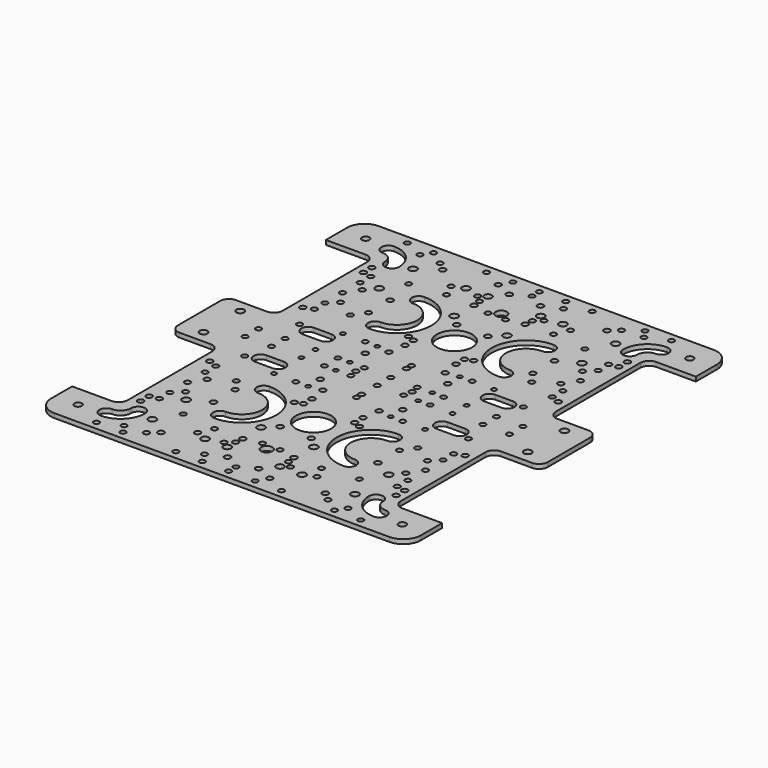
from build123d import *

# Parameters (mm, degrees)
SKETCH_W        = 210
SKETCH_H        = 115
PAD_DEPTH       = 2.5
FILLET_R        = 10
SKETCH001_R     = 2.1
SKETCH001_R_2   = 2.2
POCKET_DEPTH    = 2.501
SKETCH002_W     = 27.5
SKETCH002_H     = 70
POCKET001_DEPTH = 2.501
FILLET001_R     = 5
SKETCH003_R     = 1.6
POCKET002_DEPTH = 2.501
SKETCH004_R     = 1.65
POCKET003_DEPTH = 2.501
SKETCH005_R     = 1.75
POCKET004_DEPTH = 2.501
SKETCH006_R     = 1.6
POCKET005_DEPTH = 2.501
SKETCH007_R     = 2.2
POCKET006_DEPTH = 2.501
SKETCH008_R     = 3.175
POCKET007_DEPTH = 2.501
SKETCH009_R     = 1.7
POCKET008_DEPTH = 2.501
SKETCH010_R     = 1.7
POCKET009_DEPTH = 2.501
SKETCH011_R     = 1.35
POCKET010_DEPTH = 2.501
SKETCH012_R     = 1.6
POCKET011_DEPTH = 2.501
SKETCH013_R     = 1.6
POCKET012_DEPTH = 2.501
SKETCH015_R     = 1.65
POCKET013_DEPTH = 2.501
SKETCH016_R     = 1.6
POCKET014_DEPTH = 481.379899
SKETCH017_R     = 10
POCKET015_DEPTH = 2.5
SKETCH018_R     = 1.65
POCKET016_DEPTH = 2.501
SKETCH020_R     = 1.65
POCKET017_DEPTH = 2.501
SKETCH021_R     = 1.65
POCKET018_DEPTH = 2.501
SKETCH022_R     = 2.2
POCKET019_DEPTH = 2.501
POCKET020_DEPTH = 5


with BuildPart() as part:
    # Sketch → Pad (new body)
    with BuildSketch(Plane.XY):
        Rectangle(SKETCH_W, SKETCH_H)
    extrude(amount=PAD_DEPTH)

    # Fillet
    fillet_edges = [part.edges().sort_by_distance(p)[0] for p in [
        (-105, -57.5, 1.25),
        (105, -57.5, 1.25),
    ]]
    fillet(fillet_edges, radius=FILLET_R)

    # Sketch001 (on Face5 of Fillet) → Pocket (cut, through all)
    with BuildSketch(Plane.XY.offset(2.5)):
        with Locations((92, -44.5)):
            Circle(SKETCH001_R)
        with Locations((-92, -44.5)):
            Circle(SKETCH001_R)
        with Locations((92, 44.5)):
            Circle(SKETCH001_R_2)
        with Locations((-92, 44.5)):
            Circle(SKETCH001_R_2)
    extrude(amount=-POCKET_DEPTH, mode=Mode.SUBTRACT)

    # Sketch002 (on Face5 of Pocket) → Pocket001 (cut, through all)
    with BuildSketch(Plane.XY.offset(2.5)):
        with Locations((91.25, 2.5)):
            Rectangle(SKETCH002_W, SKETCH002_H)
        with Locations((-91.25, 2.5)):
            Rectangle(SKETCH002_W, SKETCH002_H)
    extrude(amount=-POCKET001_DEPTH, mode=Mode.SUBTRACT)

    # Fillet001
    fillet001_edges = [part.edges().sort_by_distance(p)[0] for p in [
        (77.5, -32.5, 1.25),
        (77.5, 37.5, 1.25),
        (-77.5, 37.5, 1.25),
        (-77.5, -32.5, 1.25),
        (105, 37.5, 1.25),
        (-105, 37.5, 1.25),
    ]]
    fillet(fillet001_edges, radius=FILLET001_R)

    # Sketch003 (on Face5 of Fillet001) → Pocket002 (cut, through all)
    with BuildSketch(Plane.XY.offset(2.5)):
        with Locations((0, 38)):
            Circle(SKETCH003_R)
        with Locations((63.5, 38)):
            Circle(SKETCH003_R)
        with Locations((63.5, -47.5)):
            Circle(SKETCH003_R)
        with Locations((0, -47.5)):
            Circle(SKETCH003_R)
        with Locations((-63.5, 38)):
            Circle(SKETCH003_R)
        with Locations((-63.5, -47.5)):
            Circle(SKETCH003_R)
    extrude(amount=-POCKET002_DEPTH, mode=Mode.SUBTRACT)

    # Sketch004 (on Face5 of Pocket002) → Pocket003 (cut, through all)
    with BuildSketch(Plane.XY.offset(2.5)):
        with Locations((46.651, 10.1745)):
            Circle(SKETCH004_R)
        with Locations((46.651, -5.1745)):
            Circle(SKETCH004_R)
        with Locations((62.5, -5.1745)):
            Circle(SKETCH004_R)
        with Locations((62.5, 10.1745)):
            Circle(SKETCH004_R)
        with Locations((-46.651, 10.1745)):
            Circle(SKETCH004_R)
        with Locations((-46.651, -5.1745)):
            Circle(SKETCH004_R)
        with Locations((-62.5, -5.1745)):
            Circle(SKETCH004_R)
        with Locations((-62.5, 10.1745)):
            Circle(SKETCH004_R)
    extrude(amount=-POCKET003_DEPTH, mode=Mode.SUBTRACT)

    # Sketch005 (on Face5 of Pocket003) → Pocket004 (cut, through all)
    with BuildSketch(Plane.XY.offset(2.5)):
        with Locations((-46.651, -5.1745)):
            Circle(SKETCH005_R)
        with Locations((-8.851, -5.1745)):
            Circle(SKETCH005_R)
        with Locations((-46.651, -42.4445)):
            Circle(SKETCH005_R)
        with Locations((-8.851, -42.4445)):
            Circle(SKETCH005_R)
        with Locations((46.651, -5.1745)):
            Circle(SKETCH005_R)
        with Locations((8.851, -5.1745)):
            Circle(SKETCH005_R)
        with Locations((46.651, -42.4445)):
            Circle(SKETCH005_R)
        with Locations((8.851, -42.4445)):
            Circle(SKETCH005_R)
    extrude(amount=-POCKET004_DEPTH, mode=Mode.SUBTRACT)

    # Sketch006 (on Face5 of Pocket004) → Pocket005 (cut, through all)
    with BuildSketch(Plane.XY.offset(2.5)):
        with Locations((5, -22.5)):
            Circle(SKETCH006_R)
        with Locations((50, -22.5)):
            Circle(SKETCH006_R)
        with Locations((-5, -22.5)):
            Circle(SKETCH006_R)
        with Locations((-50, -22.5)):
            Circle(SKETCH006_R)
    extrude(amount=-POCKET005_DEPTH, mode=Mode.SUBTRACT)

    # Sketch007 (on Face5 of Pocket005) → Pocket006 (cut, through all)
    with BuildSketch(Plane.XY.offset(2.5)):
        with Locations((-15, -11)):
            Circle(SKETCH007_R)
        with Locations((15, -11)):
            Circle(SKETCH007_R)
        with Locations((-15, -35)):
            Circle(SKETCH007_R)
        with Locations((15, -35)):
            Circle(SKETCH007_R)
    extrude(amount=-POCKET006_DEPTH, mode=Mode.SUBTRACT)

    # Sketch008 (on Face5 of Pocket006) → Pocket007 (cut, through all)
    with BuildSketch(Plane.XY.offset(2.5)):
        with Locations((0, -25.675)):
            Circle(SKETCH008_R)
    extrude(amount=-POCKET007_DEPTH, mode=Mode.SUBTRACT)

    # Sketch009 (on Face5 of Pocket007) → Pocket008 (cut, through all)
    with BuildSketch(Plane.XY.offset(2.5)):
        with Locations((0, 41.54)):
            Circle(SKETCH009_R)
        with Locations((23.4, 41.54)):
            Circle(SKETCH009_R)
        with Locations((-23.4, 41.54)):
            Circle(SKETCH009_R)
        with Locations((-15.96, 57.5)):
            Circle(SKETCH009_R)
        with Locations((15.96, 57.5)):
            Circle(SKETCH009_R)
        with Locations((-15.96, 34.1)):
            Circle(SKETCH009_R)
        with Locations((15.96, 34.1)):
            Circle(SKETCH009_R)
    extrude(amount=-POCKET008_DEPTH, mode=Mode.SUBTRACT)

    # Sketch010 (on Face5 of Pocket008) → Pocket009 (cut, through all)
    with BuildSketch(Plane.XY.offset(2.5)):
        with Locations((-72.5, 24.5)):
            Circle(SKETCH010_R)
        with Locations((-14.5, 24.5)):
            Circle(SKETCH010_R)
        with Locations((-72.5, -24.5)):
            Circle(SKETCH010_R)
        with Locations((-14.5, -24.5)):
            Circle(SKETCH010_R)
        with Locations((-72.5, -18.5)):
            Circle(SKETCH010_R)
        with Locations((-14.5, 18.5)):
            Circle(SKETCH010_R)
        with Locations((72.5, 24.5)):
            Circle(SKETCH010_R)
        with Locations((14.5, 24.5)):
            Circle(SKETCH010_R)
        with Locations((72.5, -24.5)):
            Circle(SKETCH010_R)
        with Locations((14.5, -24.5)):
            Circle(SKETCH010_R)
        with Locations((72.5, -18.5)):
            Circle(SKETCH010_R)
        with Locations((14.5, 18.5)):
            Circle(SKETCH010_R)
    extrude(amount=-POCKET009_DEPTH, mode=Mode.SUBTRACT)

    # Sketch011 (on Face5 of Pocket009) → Pocket010 (cut, through all)
    with BuildSketch(Plane.XY.offset(2.5)):
        with Locations((-42.9, 52.5)):
            Circle(SKETCH011_R)
        with Locations((-23.4, 52.5)):
            Circle(SKETCH011_R)
        with Locations((-42.9, 33)):
            Circle(SKETCH011_R)
        with Locations((-23.4, 33)):
            Circle(SKETCH011_R)
        with Locations((42.9, 52.5)):
            Circle(SKETCH011_R)
        with Locations((23.4, 52.5)):
            Circle(SKETCH011_R)
        with Locations((42.9, 33)):
            Circle(SKETCH011_R)
        with Locations((23.4, 33)):
            Circle(SKETCH011_R)
    extrude(amount=-POCKET010_DEPTH, mode=Mode.SUBTRACT)

    # Sketch012 (on Face5 of Pocket010) → Pocket011 (cut, through all)
    with BuildSketch(Plane.XY.offset(2.5)):
        with Locations((67.5, 15)):
            Circle(SKETCH012_R)
        with Locations((67.5, -10)):
            Circle(SKETCH012_R)
        with Locations((-67.5, 15)):
            Circle(SKETCH012_R)
        with Locations((-67.5, -10)):
            Circle(SKETCH012_R)
    extrude(amount=-POCKET011_DEPTH, mode=Mode.SUBTRACT)

    # Sketch013 (on Face5 of Pocket011) → Pocket012 (cut, through all)
    with BuildSketch(Plane.XY.offset(2.5)):
        with Locations((30.35, 32.85)):
            Circle(SKETCH013_R)
        with Locations((-30.35, 32.85)):
            Circle(SKETCH013_R)
        with Locations((-30.35, -24.85)):
            Circle(SKETCH013_R)
        with Locations((30.35, -24.85)):
            Circle(SKETCH013_R)
    extrude(amount=-POCKET012_DEPTH, mode=Mode.SUBTRACT)

    # Sketch015 (on Face5 of Pocket012) → Pocket013 (cut, through all)
    with BuildSketch(Plane.XY.offset(2.5)):
        with Locations((-15, -29)):
            Circle(SKETCH015_R)
        with Locations((15, -29)):
            Circle(SKETCH015_R)
    extrude(amount=-POCKET013_DEPTH, mode=Mode.SUBTRACT)

    # Sketch016 (on Face5 of Pocket013) → Pocket014 (cut, through all)
    with BuildSketch(Plane.XY.offset(2.5)):
        with Locations((0, 52.706787)):
            Circle(SKETCH016_R)
        with Locations((15, 52.706787)):
            Circle(SKETCH016_R)
        with Locations((30, 52.706787)):
            Circle(SKETCH016_R)
        with Locations((60, 52.706787)):
            Circle(SKETCH016_R)
        with Locations((75, 52.706787)):
            Circle(SKETCH016_R)
        with Locations((-15, 52.706787)):
            Circle(SKETCH016_R)
        with Locations((-30, 52.706787)):
            Circle(SKETCH016_R)
        with Locations((-60, 52.706787)):
            Circle(SKETCH016_R)
        with Locations((-75, 52.706787)):
            Circle(SKETCH016_R)
    pocket014 = extrude(amount=-POCKET014_DEPTH, mode=Mode.SUBTRACT)

    # Mirrored: Pocket014 across XZ
    add(pocket014.mirror(Plane.XZ), mode=Mode.SUBTRACT)

    # Sketch017 (on Face5 of Mirrored) → Pocket015 (cut)
    with BuildSketch(Plane.XY.offset(2.5)):
        with Locations((0, 7.5)):
            Circle(SKETCH017_R)
        with BuildLine():
            ThreePointArc((-77.5, -46.5), (-67.600505, -42.399495), (-63.5, -32.5))
            ThreePointArc((-63.5, -32.5), (-67.5, -28.5), (-71.5, -32.5))
            ThreePointArc((-77.5, -38.5), (-73.257359, -36.742641), (-71.5, -32.5))
            ThreePointArc((-77.5, -38.5), (-81.5, -42.5), (-77.5, -46.5))
        make_face()
        with BuildLine():
            ThreePointArc((63.5, -32.5), (67.600505, -42.399495), (77.5, -46.5))
            ThreePointArc((77.5, -46.5), (81.5, -42.5), (77.5, -38.5))
            ThreePointArc((71.5, -32.5), (73.257359, -36.742641), (77.5, -38.5))
            ThreePointArc((71.5, -32.5), (67.5, -28.5), (63.5, -32.5))
        make_face()
        with BuildLine():
            ThreePointArc((-36.651, -17), (-17.151, 2.5), (-36.651, 22))
            ThreePointArc((-36.651, 22), (-40.651, 18), (-36.651, 14))
            ThreePointArc((-36.651, -9), (-25.151, 2.5), (-36.651, 14))
            ThreePointArc((-36.651, -9), (-40.651, -13), (-36.651, -17))
        make_face()
        with BuildLine():
            ThreePointArc((36.65101, 22), (17.150961, 2.5), (36.65101, -17))
            ThreePointArc((36.65101, -17), (40.651, -12.99999), (36.65099, -9))
            ThreePointArc((36.65099, 14), (25.150961, 2.5), (36.65099, -9))
            ThreePointArc((36.65099, 14), (40.651, 17.99999), (36.65101, 22))
        make_face()
    extrude(amount=-POCKET015_DEPTH, mode=Mode.SUBTRACT)

    # Sketch018 (on Face5 of Pocket015) → Pocket016 (cut, through all)
    with BuildSketch(Plane.XY.offset(2.5)):
        with Locations((67.5, 2.5)):
            Circle(SKETCH018_R)
        with Locations((67.5, -17.5)):
            Circle(SKETCH018_R)
        with Locations((67.5, 22.5)):
            Circle(SKETCH018_R)
        with Locations((-67.5, 2.5)):
            Circle(SKETCH018_R)
        with Locations((-67.5, -17.5)):
            Circle(SKETCH018_R)
        with Locations((-67.5, 22.5)):
            Circle(SKETCH018_R)
    extrude(amount=-POCKET016_DEPTH, mode=Mode.SUBTRACT)

    # Sketch020 (on Face5 of Pocket016) → Pocket017 (cut, through all)
    with BuildSketch(Plane.XY.offset(2.5)):
        with Locations((-33.851, -32.4445)):
            Circle(SKETCH020_R)
        with Locations((-18.851, -32.4445)):
            Circle(SKETCH020_R)
        with Locations((33.851, -32.4445)):
            Circle(SKETCH020_R)
        with Locations((18.851, -32.4445)):
            Circle(SKETCH020_R)
    extrude(amount=-POCKET017_DEPTH, mode=Mode.SUBTRACT)

    # Sketch021 (on Face5 of Pocket017) → Pocket018 (cut, through all)
    with BuildSketch(Plane.XY.offset(2.5)):
        with Locations((18.5, 17)):
            Circle(SKETCH021_R)
        with Locations((51.5, 17)):
            Circle(SKETCH021_R)
        with Locations((18.5, -46.65)):
            Circle(SKETCH021_R)
        with Locations((51.5, -46.65)):
            Circle(SKETCH021_R)
        with Locations((-18.5, 17)):
            Circle(SKETCH021_R)
        with Locations((-51.5, 17)):
            Circle(SKETCH021_R)
        with Locations((-18.5, -46.65)):
            Circle(SKETCH021_R)
        with Locations((-51.5, -46.65)):
            Circle(SKETCH021_R)
    extrude(amount=-POCKET018_DEPTH, mode=Mode.SUBTRACT)

    # Sketch022 (on Face5 of Pocket018) → Pocket019 (cut, through all)
    with BuildSketch(Plane.XY.offset(2.5)):
        with Locations((-57.5, -11)):
            Circle(SKETCH022_R)
        with Locations((-57.5, -35)):
            Circle(SKETCH022_R)
        with Locations((-27.5, -11)):
            Circle(SKETCH022_R)
        with Locations((-27.5, -35)):
            Circle(SKETCH022_R)
        with Locations((57.5, -11)):
            Circle(SKETCH022_R)
        with Locations((57.5, -35)):
            Circle(SKETCH022_R)
        with Locations((27.5, -11)):
            Circle(SKETCH022_R)
        with Locations((27.5, -35)):
            Circle(SKETCH022_R)
    extrude(amount=-POCKET019_DEPTH, mode=Mode.SUBTRACT)

    # Sketch023 (on Face5 of Pocket019) → Pocket020 (cut)
    with BuildSketch(Plane.XY.offset(2.5)):
        with BuildLine():
            ThreePointArc((-56.45, 44.603394), (-60.45, 40.603394), (-56.45, 36.603394))
            Line((-56.45, 36.603394), (-46.45, 36.603394))
            ThreePointArc((-46.45, 36.603394), (-42.45, 40.603394), (-46.45, 44.603394))
            Line((-56.45, 44.603394), (-46.45, 44.603394))
        make_face()
        with BuildLine():
            ThreePointArc((56.45, 36.603394), (60.45, 40.603394), (56.45, 44.603394))
            Line((56.45, 44.603394), (46.45, 44.603394))
            ThreePointArc((46.45, 44.603394), (42.45, 40.603394), (46.45, 36.603394))
            Line((56.45, 36.603394), (46.45, 36.603394))
        make_face()
    extrude(amount=-POCKET020_DEPTH, mode=Mode.SUBTRACT)

    # Mirrored001: part across face of Pocket020


with BuildPart() as part_1:
    add(part.part)
    add(part.part.mirror(Plane(origin=(61.33, 57.5, 1.25), x_dir=(-1, 0, 0), z_dir=(0, 1, 0))))


solid = part_1.part
